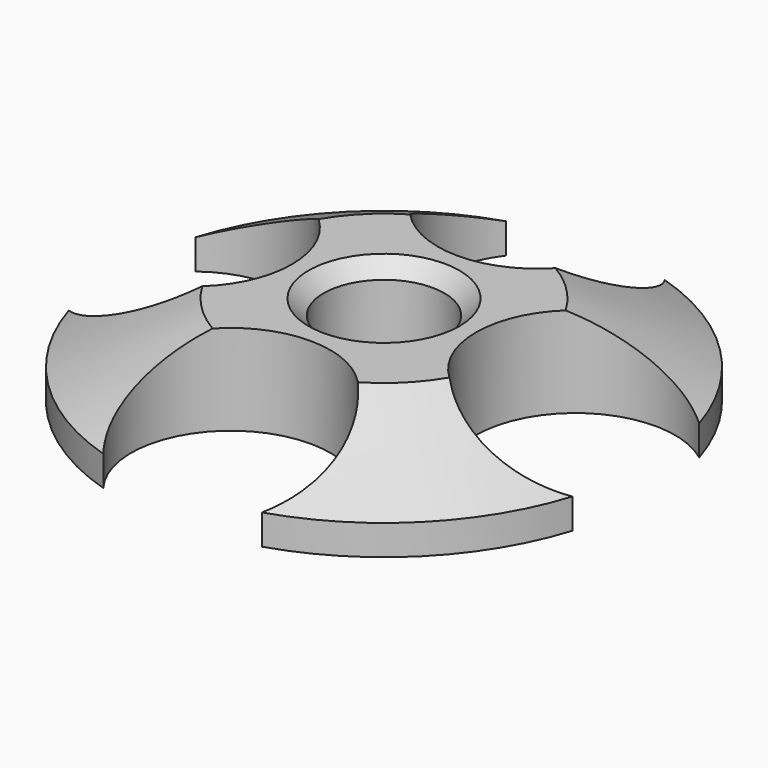
from build123d import *

# Parameters (mm, degrees)
F0_R     = 2
F1_DEPTH = 3
F2_SIZE2 = 2
F2_SIZE  = 4
F3_SIZE  = 0.5


with BuildPart() as f1:
    # F0 (on Top) → F1 (new body)
    with BuildSketch(Plane.XY):
        with BuildLine():
            ThreePointArc((-8.3460629921, 2.6278760495), (-3.05, 0), (-8.3460629921, -2.6278760495))
            ThreePointArc((-8.3460629921, -2.6278760495), (-6.1871843354, -6.1871843354), (-2.6278760495, -8.3460629921))
            ThreePointArc((-2.6278760495, -8.3460629921), (0, -3.05), (2.6278760495, -8.3460629921))
            ThreePointArc((2.6278760495, -8.3460629921), (6.1871843354, -6.1871843354), (8.3460629921, -2.6278760495))
            ThreePointArc((8.3460629921, -2.6278760495), (3.05, 0), (8.3460629921, 2.6278760495))
            ThreePointArc((8.3460629921, 2.6278760495), (6.1871843354, 6.1871843354), (2.6278760495, 8.3460629921))
            ThreePointArc((2.6278760495, 8.3460629921), (0, 3.05), (-2.6278760495, 8.3460629921))
            ThreePointArc((-2.6278760495, 8.3460629921), (-6.1871843354, 6.1871843354), (-8.3460629921, 2.6278760495))
        make_face()
        Circle(F0_R, mode=Mode.SUBTRACT)
    extrude(amount=F1_DEPTH)

    # F2
    f2_edges = [f1.edges().sort_by_distance(p)[0] for p in [
        (-6.187184, 6.187184, 3),
        (-6.187184, -6.187184, 3),
        (6.187184, -6.187184, 3),
        (6.187184, 6.187184, 3),
    ]]
    f2_side = f1.faces().sort_by_distance((-6.020263, 6.020263, 3))[0]
    chamfer(f2_edges, length=F2_SIZE, length2=F2_SIZE2, reference=f2_side)

    # F3
    f3_edges = [f1.edges().sort_by_distance(p)[0] for p in [
        (-2, 0, 3),
    ]]
    chamfer(f3_edges, length=F3_SIZE)


solid = f1.part
